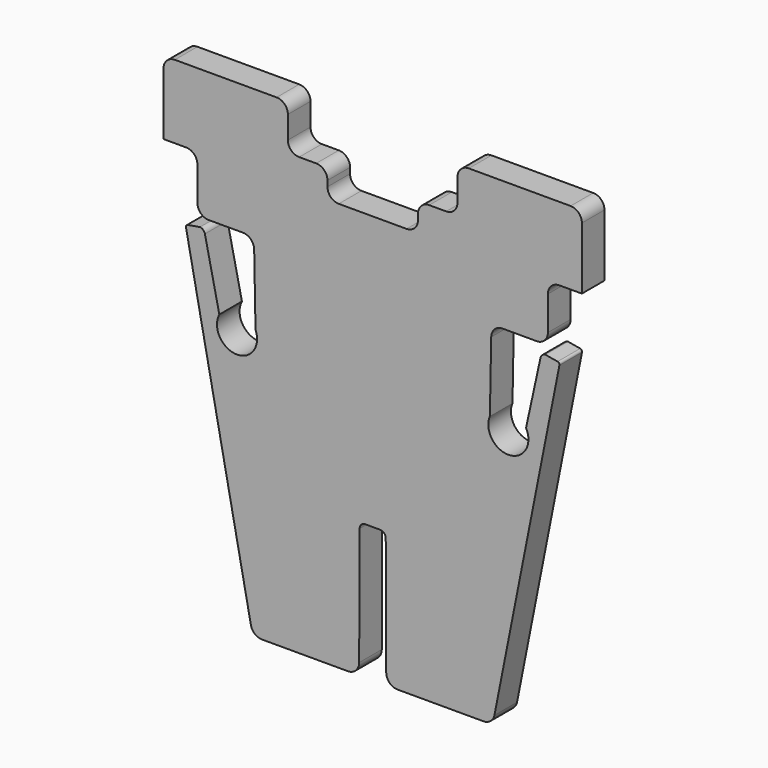
from build123d import *

# Parameters (mm, degrees)
F1_DEPTH = 5


with BuildPart() as f1:
    # F0 (on Front) → F1 (new body)
    with BuildSketch(Plane.XZ):
        with BuildLine():
            Line((-19.579825, -46.480709), (-4.39304, -46.480709))
            ThreePointArc((-4.39304, -46.480709), (-2.978827, -45.894922), (-2.39304, -44.480709))
            Line((-2.39304, -44.480709), (-2.307435, -23.588217))
            ThreePointArc((-2.307435, -23.588217), (-2.011647, -22.882316), (-1.303346, -22.592323))
            Line((-1.303346, -22.592323), (0, -22.597663))
            Line((0, -22.597663), (1.303346, -22.592323))
            ThreePointArc((1.303346, -22.592323), (2.011647, -22.882316), (2.307435, -23.588217))
            Line((2.307435, -23.588217), (2.39304, -44.480709))
            ThreePointArc((2.39304, -44.480709), (2.978827, -45.894922), (4.39304, -46.480709))
            Line((4.39304, -46.480709), (19.579825, -46.480709))
            ThreePointArc((19.579825, -46.480709), (20.834683, -46.038056), (21.534075, -44.90604))
            Line((21.534075, -44.90604), (33.025994, 13.32863))
            ThreePointArc((33.025994, 13.32863), (32.963174, 13.632691), (32.701764, 13.800214))
            Line((32.701764, 13.800214), (30.537306, 14.174745))
            ThreePointArc((30.537306, 14.174745), (29.982688, 13.922053), (29.67776, 13.394347))
            Line((29.67776, 13.394347), (27.125774, 1.668846))
            ThreePointArc((27.125774, 1.668846), (24.161549, -3.542454), (20.726163, 1.371038))
            Line((20.726163, 1.371038), (20.962695, 13.810922))
            ThreePointArc((20.962695, 13.810922), (21.561627, 15.200493), (22.962334, 15.772901))
            Line((22.962334, 15.772901), (29, 15.772901))
            ThreePointArc((29, 15.772901), (30.414214, 16.358687), (31, 17.772901))
            Line((31, 17.772901), (31, 23.772901))
            ThreePointArc((31, 23.772901), (31.585786, 25.187114), (33, 25.772901))
            Line((33, 25.772901), (37, 25.772901))
            Line((37, 25.772901), (37, 36.772901))
            ThreePointArc((37, 36.772901), (36.414214, 38.187114), (35, 38.772901))
            Line((35, 38.772901), (17, 38.772901))
            ThreePointArc((17, 38.772901), (15.585786, 38.187114), (15, 36.772901))
            Line((15, 36.772901), (15, 32.772901))
            ThreePointArc((15, 32.772901), (14.414214, 31.358687), (13, 30.772901))
            Line((13, 30.772901), (10, 30.772901))
            ThreePointArc((10, 30.772901), (8.585786, 30.187114), (8, 28.772901))
            Line((8, 28.772901), (8, 27.772901))
            ThreePointArc((8, 27.772901), (7.414214, 26.358687), (6, 25.772901))
            Line((6, 25.772901), (0, 25.772901))
            Line((0, 25.772901), (-6, 25.772901))
            ThreePointArc((-6, 25.772901), (-7.414214, 26.358687), (-8, 27.772901))
            Line((-8, 27.772901), (-8, 28.772901))
            ThreePointArc((-8, 28.772901), (-8.585786, 30.187114), (-10, 30.772901))
            Line((-10, 30.772901), (-13, 30.772901))
            ThreePointArc((-13, 30.772901), (-14.414214, 31.358687), (-15, 32.772901))
            Line((-15, 32.772901), (-15, 36.772901))
            ThreePointArc((-15, 36.772901), (-15.585786, 38.187114), (-17, 38.772901))
            Line((-17, 38.772901), (-35, 38.772901))
            ThreePointArc((-35, 38.772901), (-36.414214, 38.187114), (-37, 36.772901))
            Line((-37, 36.772901), (-37, 25.772901))
            Line((-37, 25.772901), (-33, 25.772901))
            ThreePointArc((-33, 25.772901), (-31.585786, 25.187114), (-31, 23.772901))
            Line((-31, 23.772901), (-31, 17.772901))
            ThreePointArc((-31, 17.772901), (-30.414214, 16.358687), (-29, 15.772901))
            Line((-29, 15.772901), (-22.962334, 15.772901))
            ThreePointArc((-22.962334, 15.772901), (-21.561627, 15.200493), (-20.962695, 13.810922))
            Line((-20.962695, 13.810922), (-20.726163, 1.371038))
            ThreePointArc((-20.726163, 1.371038), (-24.161549, -3.542454), (-27.125774, 1.668846))
            Line((-27.125774, 1.668846), (-29.67776, 13.394347))
            ThreePointArc((-29.67776, 13.394347), (-29.982688, 13.922053), (-30.537306, 14.174745))
            Line((-30.537306, 14.174745), (-32.701764, 13.800214))
            ThreePointArc((-32.701764, 13.800214), (-32.963174, 13.632691), (-33.025994, 13.32863))
            Line((-33.025994, 13.32863), (-21.534075, -44.90604))
            ThreePointArc((-21.534075, -44.90604), (-20.834683, -46.038056), (-19.579825, -46.480709))
        make_face()
    extrude(amount=F1_DEPTH)


solid = f1.part
